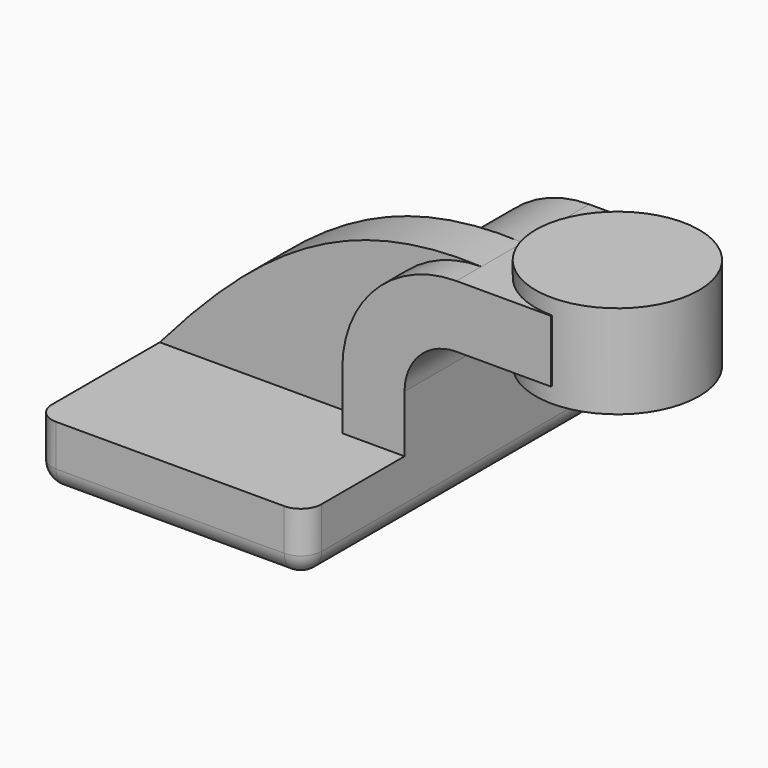
from build123d import *

# Parameters (mm, degrees)
F1_DEPTH = 63.5
F0_W     = 25.7705491662
F0_H     = 19.05
F2_DEPTH = 25.4
F3_DEPTH = 15.875
F4_DEPTH = 25.4
F6_R     = 6.35


with BuildPart() as f1:
    # F0 (on Front) → F1 (new body, symmetric)
    with BuildSketch(Plane.XZ):
        Polygon((22.225, 9.525), (-41.275, 9.525), (-41.275, -9.525), (41.275, -9.525), (41.275, 9.525), align=None)
    extrude(amount=F1_DEPTH, both=True)

    # F0 (on Front) → F2 (join, symmetric)
    with BuildSketch(Plane.XZ):
        with BuildLine():
            Line((22.225, 27.0002), (22.225, 9.525))
            Line((22.225, 9.525), (41.275, 9.525))
            Line((41.275, 9.525), (41.275, 27.0002))
            ThreePointArc((41.275, 27.0002), (45.9246798487, 38.2255201513), (57.15, 42.8752))
            Line((57.15, 42.8752), (60.325, 42.8752))
            Line((60.325, 42.8752), (60.325, 61.9252))
            Line((60.325, 61.9252), (57.15, 61.9252))
            ThreePointArc((57.15, 61.9252), (32.4542956671, 51.6959043329), (22.225, 27.0002))
        make_face()
        with Locations((73.2102745831, 52.4002)):
            Rectangle(F0_W, F0_H)
    extrude(amount=F2_DEPTH, both=True)

    # F0 (on Front) → F3 (join)
    with BuildSketch(Plane.XZ):
        with BuildLine():
            add(Edge.make_bspline(
                [(-41.275, 9.525), (-11.6340629756, 43.7753386796), (15.0888795033, 63.8811737299), (57.15, 61.9252)],
                knots=[0, 0, 0, 0, 111.5045361635, 111.5045361635, 111.5045361635, 111.5045361635], degree=3))
            Line((-41.275, 9.525), (22.225, 9.525))
            Line((22.225, 9.525), (22.225, 27.0002))
            ThreePointArc((22.225, 27.0002), (32.4542956671, 51.6959043329), (57.15, 61.9252))
        make_face()
    extrude(amount=F3_DEPTH)

    # F0 (on Front) → F4 (join, symmetric)
    with BuildSketch(Plane.XZ):
        with Locations((73.2102745831, 52.4002)):
            Rectangle(F0_W, F0_H)
    extrude(amount=F4_DEPTH, both=True)

    # F0 (on Front) → F5 (revolve)
    with BuildSketch(Plane.XZ):
        Polygon((86.0955491662, 66.675), (86.0955491662, 61.9252), (86.0955491662, 42.8752), (86.0955491662, 38.1), (111.125, 38.1), (111.125, 66.675), align=None)
    revolve(axis=Axis((86.0955491662, 0, 52.3875), (0, 0, -1)))

    # F6
    f6_edges = [f1.edges().sort_by_distance(p)[0] for p in [
        (41.275, -63.5, 0),
        (-41.275, -63.5, 0),
        (-41.275, 0, -9.525),
        (0, 63.5, -9.525),
        (41.275, 0, -9.525),
        (0, -63.5, -9.525),
        (-41.275, 63.5, 0),
        (41.275, 63.5, 0),
    ]]
    fillet(f6_edges, radius=F6_R)


solid = f1.part
